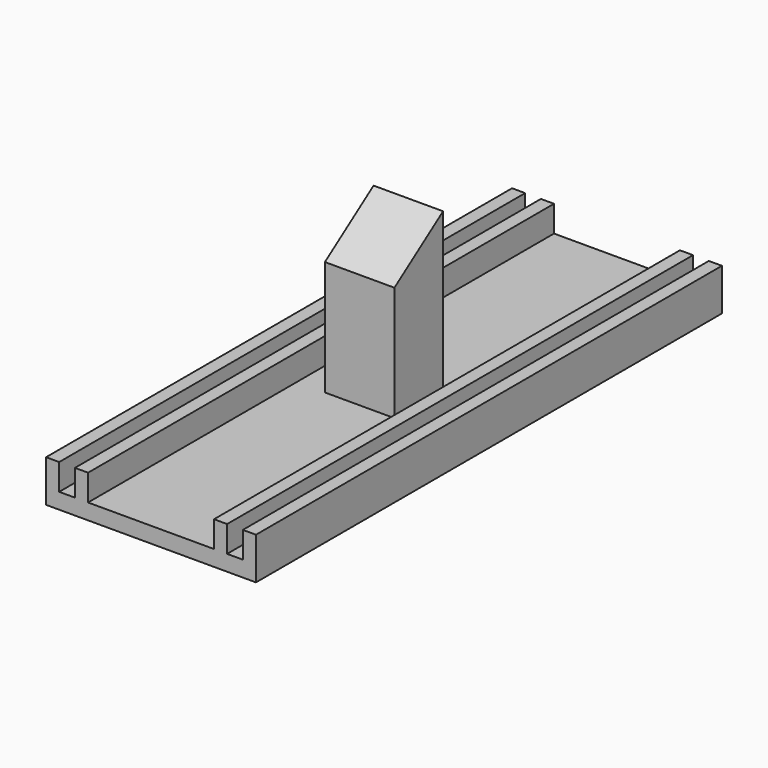
from build123d import *

# Parameters (mm, degrees)
F0_W     = 40
F0_H     = 111
F1_DEPTH = 3
F2_W     = 2.5
F2_H     = 111
F3_DEPTH = 5
F5_W     = 13.24492
F5_H     = 11.589288
F6_DEPTH = 30
F8_DEPTH = 25.4


with BuildPart() as f1:
    # F0 (on Top) → F1 (new body)
    with BuildSketch(Plane.XY):
        Rectangle(F0_W, F0_H)
    extrude(amount=F1_DEPTH)

    # F2 (on face) → F3 (join)
    with BuildSketch(Plane.XY.offset(3)):
        with Locations((-13.25, 0)):
            Rectangle(F2_W, F2_H)
        with Locations((-18.75, 0)):
            Rectangle(F2_W, F2_H)
    extrude(amount=F3_DEPTH)

    # F4: F1 across plane


with BuildPart() as f1_1:
    add(f1.part)
    add(f1.part.mirror(Plane.YZ))

    # F5 (on face) → F6 (join)
    with BuildSketch(Plane.XY.offset(3)):
        Rectangle(F5_W, F5_H)
    extrude(amount=F6_DEPTH)

    # F7 (on face) → F8 (cut)
    with BuildSketch(Plane(origin=(-6.62246, 0, 0), x_dir=(0, -1, 0), z_dir=(-1, 0, 0))):
        Polygon((5.794644, 33), (-5.794644, 33), (5.794644, 24.885093), align=None)
        Polygon((5.794644, 33), (-5.794644, 33), (5.794644, 24.885093), align=None)
    extrude(amount=-F8_DEPTH, mode=Mode.SUBTRACT)


solid = f1_1.part
